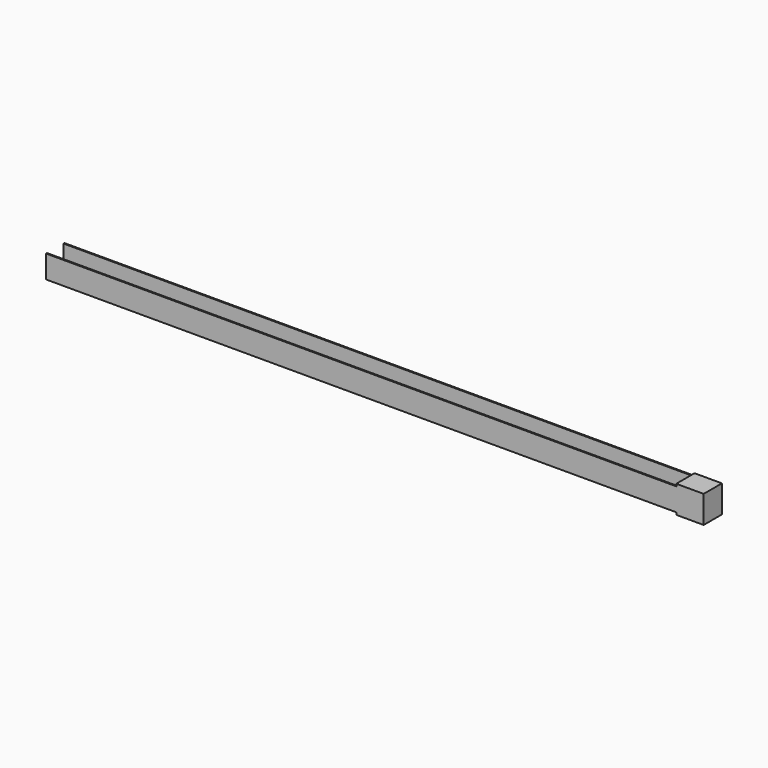
from build123d import *

# Parameters (mm, degrees)
F1_DEPTH = 31.75
F2_W     = 76.2
F2_H     = 63.5
F3_DEPTH = 6.35
F4_W     = 76.2
F4_H     = 63.5
F5_DEPTH = 6.35


with BuildPart() as f1:
    # F0 (on Top) → F1 (new body, symmetric)
    with BuildSketch(Plane.XY):
        Polygon((1828.8, 31.75), (0, 31.75), (0, 28.575), (1825.625, 28.575), (1825.625, -28.575), (0, -28.575), (0, -31.75), (1828.8, -31.75), align=None)
    extrude(amount=F1_DEPTH, both=True)

    # F2 (on face) → F3 (join)
    with BuildSketch(Plane(origin=(0, 0, -31.75), x_dir=(1, 0, 0), z_dir=(0, 0, -1))):
        with Locations((1790.7, 0)):
            Rectangle(F2_W, F2_H)
    extrude(amount=F3_DEPTH)

    # F4 (on face) → F5 (join)
    with BuildSketch(Plane.XY.offset(31.75)):
        with Locations((1790.7, 0)):
            Rectangle(F4_W, F4_H)
    extrude(amount=F5_DEPTH)


solid = f1.part
